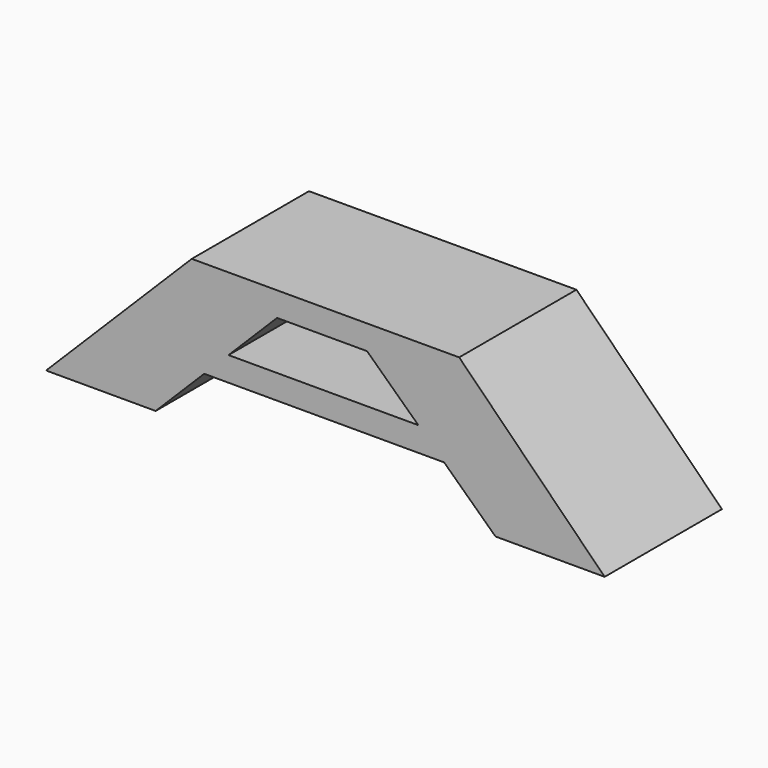
from build123d import *

# Parameters (mm, degrees)
F1_DEPTH = 40


with BuildPart() as f1:
    # F0 (on Front) → F1 (new body)
    with BuildSketch(Plane.XZ):
        Polygon((46.278674, -74.044831), (76.079428, -74.044831), (36.369274, -34.225006), (-36.618575, -34.286425), (-76.376982, -74.044831), (-46.473302, -74.044831), (-33.221751, -60.793281), (32.26361, -60.793281), align=None)
        Polygon((-26.572818, -54.144347), (-13.33468, -40.906209), (11.230706, -40.906209), (25.231585, -54.144347), align=None, mode=Mode.SUBTRACT)
    extrude(amount=F1_DEPTH)


solid = f1.part
